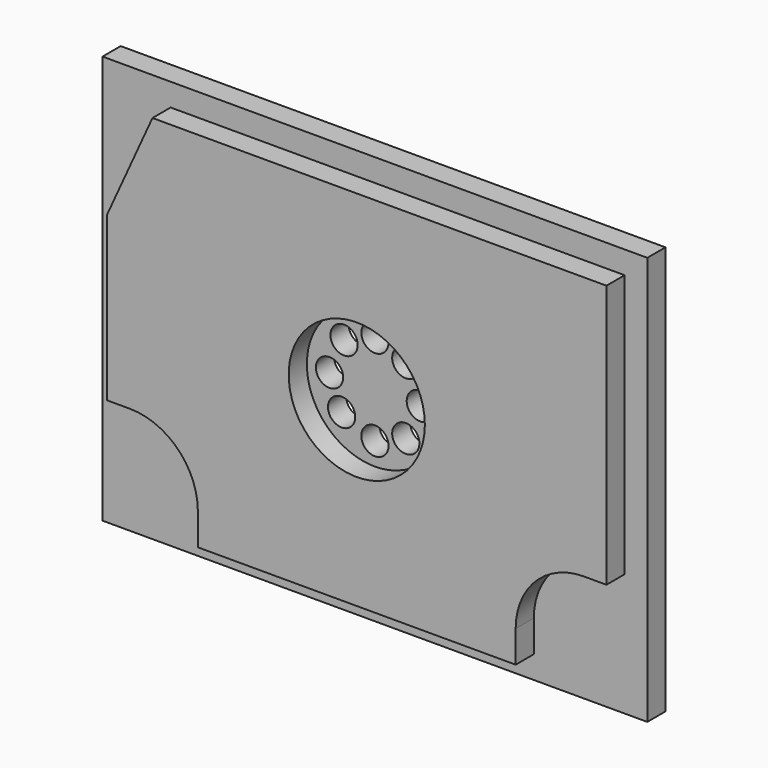
from build123d import *

# Parameters (mm, degrees)
F0_W     = 120
F0_H     = 90
F1_DEPTH = 5
F3_DEPTH = 5
F4_R     = 15
F5_DEPTH = 5
F6_R     = 3
F7_DEPTH = 5


with BuildPart() as f1:
    # F0 (on Front) → F1 (new body)
    with BuildSketch(Plane.XZ):
        Rectangle(F0_W, F0_H)
    extrude(amount=F1_DEPTH)

    # F2 (on face) → F3 (join)
    with BuildSketch(Plane.XZ.offset(5)):
        with BuildLine():
            Line((55, -18), (55, 40))
            Line((55, 40), (-45, 40))
            Line((-45, 40), (-55, 18))
            Line((-55, 18), (-55, -18))
            Line((-55, -18), (-50, -18))
            ThreePointArc((-50, -18), (-39.393398, -22.393398), (-35, -33))
            Line((-35, -33), (-35, -40))
            Line((-35, -40), (35, -40))
            Line((35, -40), (35, -33))
            ThreePointArc((35, -33), (39.393398, -22.393398), (50, -18))
            Line((50, -18), (55, -18))
        make_face()
    extrude(amount=F3_DEPTH)

    # F4 (on face) → F5 (cut)
    with BuildSketch(Plane.XZ.offset(10)):
        Circle(F4_R)
    extrude(amount=-F5_DEPTH, mode=Mode.SUBTRACT)

    # F6 (on face) → F7 (cut)
    with BuildSketch(Plane.XZ.offset(5)):
        with Locations((0, 10)):
            Circle(F6_R)
        with Locations((-6.8, 7.332121)):
            Circle(F6_R)
        with Locations((-10, 0)):
            Circle(F6_R)
        with Locations((-7.332121, -6.8)):
            Circle(F6_R)
        with Locations((0, -10)):
            Circle(F6_R)
        with Locations((6.8, -7.332121)):
            Circle(F6_R)
        with Locations((10, 0)):
            Circle(F6_R)
        with Locations((6.8, 7.332121)):
            Circle(F6_R)
    extrude(amount=-F7_DEPTH, mode=Mode.SUBTRACT)


solid = f1.part
